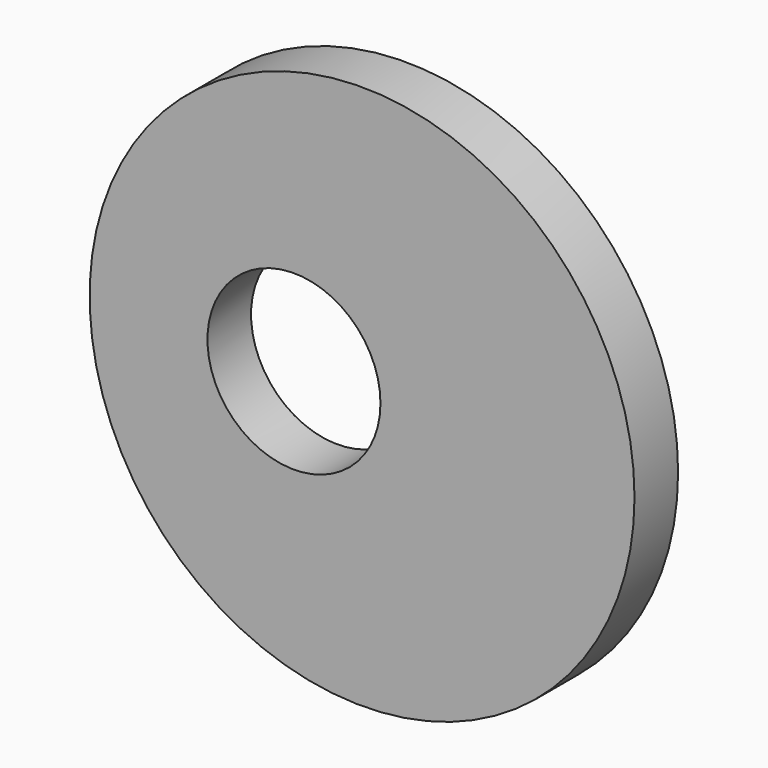
from build123d import *

# Parameters (mm, degrees)
SKETCH_R     = 20
PAD_DEPTH    = 4
SKETCH001_R  = 6.35
POCKET_DEPTH = 5


with BuildPart() as part:
    # Sketch → Pad (new body)
    with BuildSketch(Plane.XZ):
        Circle(SKETCH_R)
    extrude(amount=PAD_DEPTH)

    # Sketch001 (on Face3 of Pad) → Pocket (cut)
    with BuildSketch(Plane.XZ.offset(4)):
        with Locations((-5, 0)):
            Circle(SKETCH001_R)
    extrude(amount=-POCKET_DEPTH, mode=Mode.SUBTRACT)


solid = part.part
